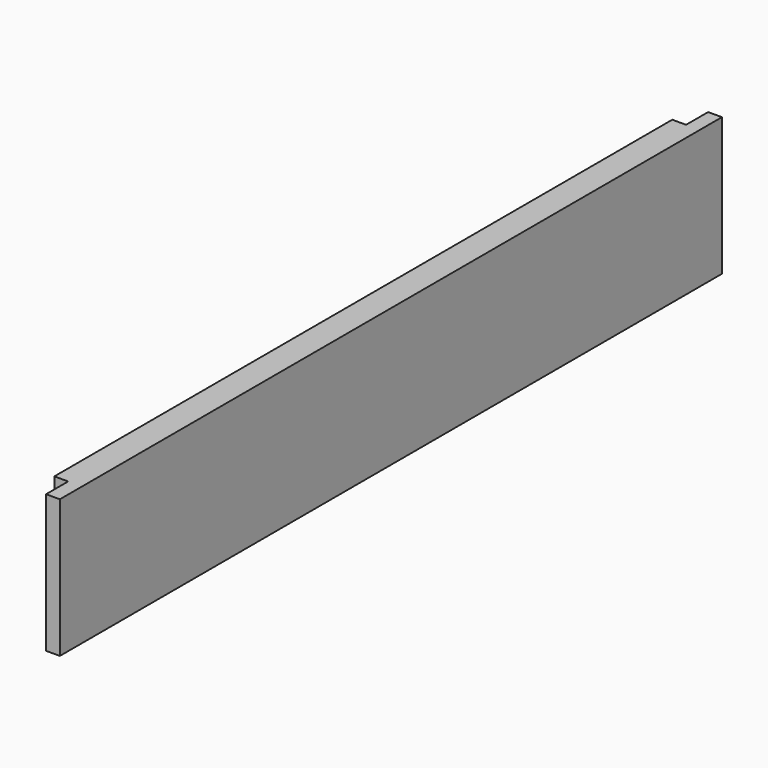
from build123d import *

# Parameters (mm, degrees)
F0_W     = 381
F0_H     = 63.5
F1_DEPTH = 12.7
F2_W     = 381
F2_H     = 6.35
F3_DEPTH = 6.35
F4_W     = 6.35
F4_H     = 12.7
F5_DEPTH = 63.501


with BuildPart() as f1:
    # F0 (on Right) → F1 (new body)
    with BuildSketch(Plane.YZ):
        with Locations((2.870057, 0)):
            Rectangle(F0_W, F0_H)
    extrude(amount=F1_DEPTH)

    # F2 (on face) → F3 (cut)
    with BuildSketch(Plane(origin=(0, 0, 0), x_dir=(0, -1, 0), z_dir=(-1, 0, 0))):
        with Locations((-2.870057, 22.225)):
            Rectangle(F2_W, F2_H)
        with Locations((-2.870057, -22.225)):
            Rectangle(F2_W, F2_H)
    extrude(amount=-F3_DEPTH, mode=Mode.SUBTRACT)

    # F4 (on face) → F5 (cut, through all)
    with BuildSketch(Plane.XY.offset(31.75)):
        with Locations((3.175, 187.020057)):
            Rectangle(F4_W, F4_H)
        with Locations((3.175, -181.279943)):
            Rectangle(F4_W, F4_H)
    extrude(amount=-F5_DEPTH, mode=Mode.SUBTRACT)


solid = f1.part
